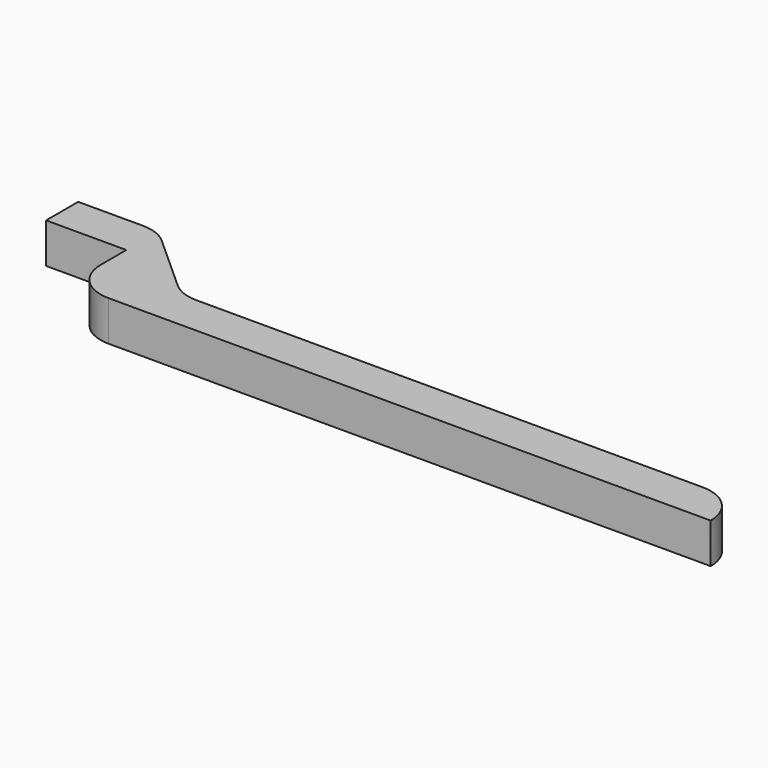
from build123d import *

# Parameters (mm, degrees)
F1_DEPTH = 5


with BuildPart() as f1:
    # F0 (on Top) → F1 (new body)
    with BuildSketch(Plane.XY):
        with BuildLine():
            Line((-11.91868, 14), (-20, 14))
            Line((-20, 14), (-20, 9))
            Line((-20, 9), (-10, 9))
            Line((-10, 9), (-10, 5))
            ThreePointArc((-10, 5), (-8.535534, 1.464466), (-5, 0))
            Line((-5, 0), (0, 0))
            Line((0, 0), (70, 0))
            ThreePointArc((70, 0), (68.535534, 3.535534), (65, 5))
            Line((65, 5), (1.91868, 5))
            ThreePointArc((1.91868, 5), (0.127361, 5.331898), (-1.426144, 6.283529))
            Line((-1.426144, 6.283529), (-8.573856, 12.716471))
            ThreePointArc((-8.573856, 12.716471), (-10.127361, 13.668102), (-11.91868, 14))
        make_face()
    extrude(amount=F1_DEPTH)


solid = f1.part
